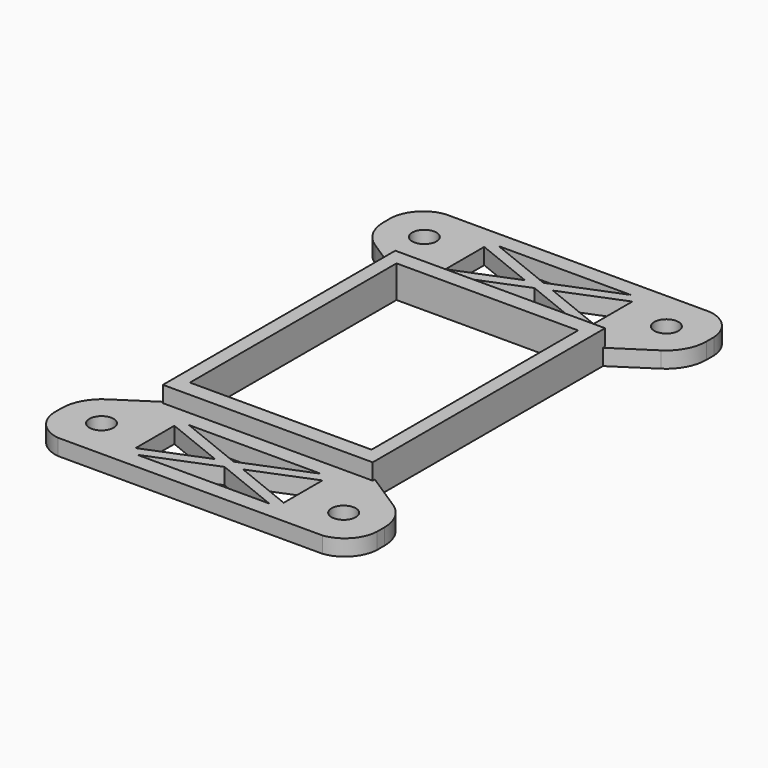
from build123d import *

# Parameters (mm, degrees)
F0_R     = 3.5
F0_R_2   = 1.5
F1_DEPTH = 2
F0_W     = 22.5
F0_H     = 32
F2_DEPTH = 4


with BuildPart() as f1:
    # F0 (on Top) → F1 (new body)
    with BuildSketch(Plane.XY):
        with BuildLine():
            ThreePointArc((20, 26.114874), (18.904278, 28.704066), (16.409269, 30))
            Line((16.409269, 30), (-16.409269, 30))
            ThreePointArc((-16.409269, 30), (-18.904278, 28.704066), (-20, 26.114874))
            Line((-20, 26.114874), (-20, 24.938533))
            ThreePointArc((-20, 24.938533), (-19.396294, 22.556811), (-17.73096, 20.750233))
            Line((-17.73096, 20.750233), (-13, 17.665434))
            Line((-13, 17.665434), (-13, 18))
            Line((-13, 18), (13, 18))
            Line((13, 18), (13, 17.665434))
            Line((13, 17.665434), (17.73096, 20.750233))
            ThreePointArc((17.73096, 20.750233), (19.396294, 22.556811), (20, 24.938533))
            Line((20, 24.938533), (20, 26.114874))
        make_face()
        with Locations((-15, 25)):
            Circle(F0_R, mode=Mode.SUBTRACT)
        Polygon((-9.18, 27), (-9.18, 28), (-8.18, 28), (8.18, 28), (9.170838, 28), (9.170838, 27), (9.170838, 21), (9.170838, 20), (8.18, 20), (-8.18, 20), (-9.18, 20), (-9.18, 21), align=None, mode=Mode.SUBTRACT)
        with Locations((15, 25)):
            Circle(F0_R, mode=Mode.SUBTRACT)
        with BuildLine():
            Line((17.73096, -20.750233), (13, -17.665434))
            Line((13, -17.665434), (13, -18))
            Line((13, -18), (-13, -18))
            Line((-13, -18), (-13, -17.665434))
            Line((-13, -17.665434), (-17.73096, -20.750233))
            ThreePointArc((-17.73096, -20.750233), (-19.396294, -22.556811), (-20, -24.938533))
            Line((-20, -24.938533), (-20, -26.114874))
            ThreePointArc((-20, -26.114874), (-18.904278, -28.704066), (-16.409269, -30))
            Line((-16.409269, -30), (16.409269, -30))
            ThreePointArc((16.409269, -30), (18.904278, -28.704066), (20, -26.114874))
            Line((20, -26.114874), (20, -24.938533))
            ThreePointArc((20, -24.938533), (19.396294, -22.556811), (17.73096, -20.750233))
        make_face()
        with Locations((-15, -25)):
            Circle(F0_R, mode=Mode.SUBTRACT)
        Polygon((-8.18, -20), (8.18, -20), (9.170838, -20), (9.170838, -21), (9.170838, -27), (9.170838, -28), (8.18, -28), (-8.18, -28), (-9.18, -28), (-9.18, -27), (-9.18, -21), (-9.18, -20), align=None, mode=Mode.SUBTRACT)
        with Locations((15, -25)):
            Circle(F0_R, mode=Mode.SUBTRACT)
        with Locations((-15, -25)):
            Circle(F0_R)
        with Locations((-15, -25)):
            Circle(F0_R_2, mode=Mode.SUBTRACT)
        with Locations((15, -25)):
            Circle(F0_R)
        with Locations((15, -25)):
            Circle(F0_R_2, mode=Mode.SUBTRACT)
        with Locations((15, 25)):
            Circle(F0_R)
        with Locations((15, 25)):
            Circle(F0_R_2, mode=Mode.SUBTRACT)
        with Locations((-15, 25)):
            Circle(F0_R)
        with Locations((-15, 25)):
            Circle(F0_R_2, mode=Mode.SUBTRACT)
        Polygon((-8.18, 28), (-9.18, 28), (-9.18, 27), (-1.743927, 24), (-9.18, 21), (-9.18, 20), (-8.18, 20), (0, 23.300129), (8.18, 20), (9.170838, 20), (9.170838, 21), (1.734764, 24), (9.170838, 27), (9.170838, 28), (8.18, 28), (0, 24.699871), align=None)
        Polygon((9.170838, -20), (8.18, -20), (0, -23.300129), (-8.18, -20), (-9.18, -20), (-9.18, -21), (-1.743927, -24), (-9.18, -27), (-9.18, -28), (-8.18, -28), (0, -24.699871), (8.18, -28), (9.170838, -28), (9.170838, -27), (1.734764, -24), (9.170838, -21), align=None)
    extrude(amount=F1_DEPTH)

    # F0 (on Top) → F2 (join)
    with BuildSketch(Plane.XY):
        Polygon((13, -17.665434), (13, 17.665434), (13, 18), (-13, 18), (-13, 17.665434), (-13, -17.665434), (-13, -18), (13, -18), align=None)
        Rectangle(F0_W, F0_H, mode=Mode.SUBTRACT)
    extrude(amount=F2_DEPTH)


solid = f1.part
